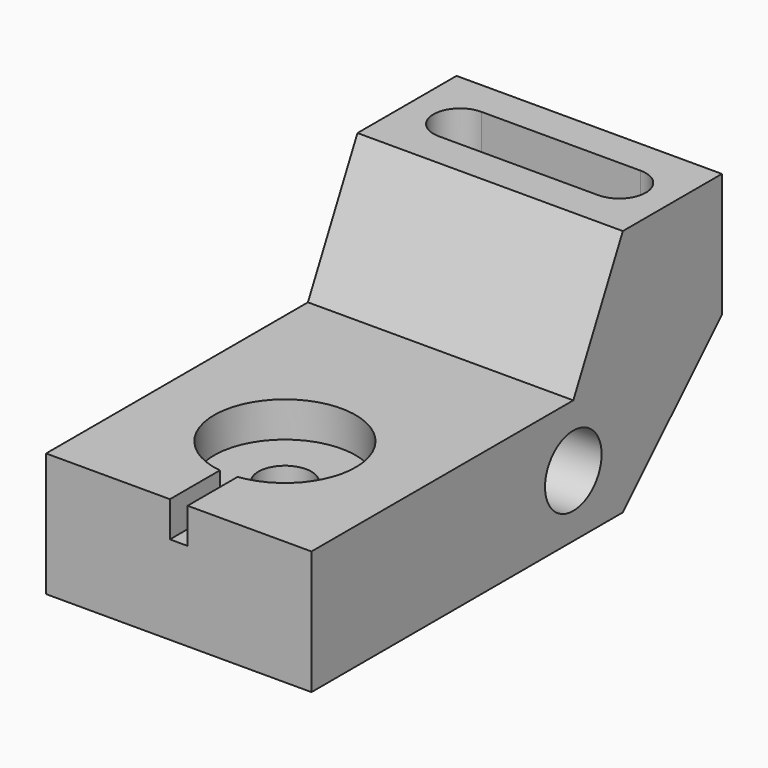
from build123d import *

# Parameters (mm, degrees)
F1_DEPTH       = 76.2
F2_R           = 10.16
F3_DEPTH       = 76.2
F5_DEPTH       = 27.94
F7_D           = 15.24
F7_CBORE_D     = 40.64
F7_CBORE_DEPTH = 10.16
F8_W           = 5.08
F8_H           = 10.16
F9_DEPTH       = 19.05


with BuildPart() as f1:
    # F0 (on Right) → F1 (new body)
    with BuildSketch(Plane.YZ):
        Polygon((0, 35.56), (0, 0), (111.76, 0), (147.32, 35.56), (147.32, 71.12), (111.76, 71.12), (93.98, 35.56), align=None)
    extrude(amount=F1_DEPTH)

    # F2 (on face) → F3 (cut, through all)
    with BuildSketch(Plane.YZ.offset(76.2)):
        with Locations((93.98, 17.78)):
            Circle(F2_R)
    extrude(amount=-F3_DEPTH, mode=Mode.SUBTRACT)

    # F4 (on face) → F5 (cut)
    with BuildSketch(Plane.XY.offset(71.12)):
        with BuildLine():
            ThreePointArc((15.24, 137.16), (7.62, 129.54), (15.24, 121.92))
            Line((15.24, 121.92), (60.96, 121.92))
            ThreePointArc((60.96, 121.92), (68.58, 129.54), (60.96, 137.16))
            Line((60.96, 137.16), (15.24, 137.16))
        make_face()
    extrude(amount=-F5_DEPTH, mode=Mode.SUBTRACT)

    # F7 (through all)
    with Locations(Plane.XY.offset(35.56)):
        with Locations((38.1, 38.1)):
            CounterBoreHole(F7_D / 2, F7_CBORE_D / 2, F7_CBORE_DEPTH)

    # F8 (on face) → F9 (cut)
    with BuildSketch(Plane.XZ):
        with Locations((38.1, 30.48)):
            Rectangle(F8_W, F8_H)
    extrude(amount=-F9_DEPTH, mode=Mode.SUBTRACT)


solid = f1.part
